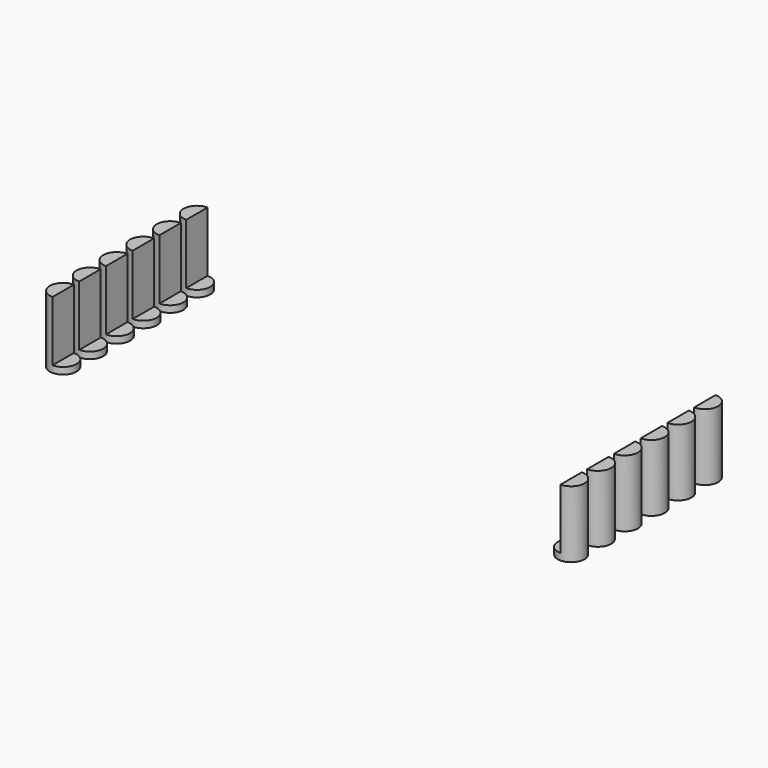
from build123d import *

# Parameters (mm, degrees)
BOX003_W          = 5
BOX003_H          = 35
BOX003_DEPTH      = 12
BOX002_W          = 5
BOX002_H          = 35
BOX002_DEPTH      = 12
CYLINDER013_R     = 2
CYLINDER013_DEPTH = 10
CYLINDER014_R     = 2
CYLINDER014_DEPTH = 10
CYLINDER015_R     = 2
CYLINDER015_DEPTH = 10
CYLINDER016_R     = 2
CYLINDER016_DEPTH = 10
CYLINDER017_R     = 2
CYLINDER017_DEPTH = 10
CYLINDER012_R     = 2
CYLINDER012_DEPTH = 10
CYLINDER007_R     = 2
CYLINDER007_DEPTH = 10
CYLINDER008_R     = 2
CYLINDER008_DEPTH = 10
CYLINDER009_R     = 2
CYLINDER009_DEPTH = 10
CYLINDER010_R     = 2
CYLINDER010_DEPTH = 10
CYLINDER011_R     = 2
CYLINDER011_DEPTH = 10
CYLINDER006_R     = 2
CYLINDER006_DEPTH = 10


with BuildPart() as cubo003:
    # Box003 → Box003 (new body)
    with BuildSketch(Plane(origin=(-71, 69, 2), x_dir=(1, 0, 0), z_dir=(0, 0, 1))):
        with Locations((2.5, 17.5)):
            Rectangle(BOX003_W, BOX003_H)
    extrude(amount=BOX003_DEPTH)


with BuildPart() as cubo002:
    # Box002 → Box002 (new body)
    with BuildSketch(Plane(origin=(0, 69, 2), x_dir=(1, 0, 0), z_dir=(0, 0, 1))):
        with Locations((2.5, 17.5)):
            Rectangle(BOX002_W, BOX002_H)
    extrude(amount=BOX002_DEPTH)


with BuildPart() as cilindro013:
    # Cylinder013 → Cylinder013 (new body)
    with BuildSketch(Plane(origin=(5, 73, 1), x_dir=(1, 0, 0), z_dir=(0, 0, 1))):
        Circle(CYLINDER013_R)
    extrude(amount=CYLINDER013_DEPTH)


with BuildPart() as cilindro014:
    # Cylinder014 → Cylinder014 (new body)
    with BuildSketch(Plane(origin=(5, 83, 1), x_dir=(1, 0, 0), z_dir=(0, 0, 1))):
        Circle(CYLINDER014_R)
    extrude(amount=CYLINDER014_DEPTH)


with BuildPart() as cilindro015:
    # Cylinder015 → Cylinder015 (new body)
    with BuildSketch(Plane(origin=(5, 88, 1), x_dir=(1, 0, 0), z_dir=(0, 0, 1))):
        Circle(CYLINDER015_R)
    extrude(amount=CYLINDER015_DEPTH)


with BuildPart() as cilindro016:
    # Cylinder016 → Cylinder016 (new body)
    with BuildSketch(Plane(origin=(5, 93, 1), x_dir=(1, 0, 0), z_dir=(0, 0, 1))):
        Circle(CYLINDER016_R)
    extrude(amount=CYLINDER016_DEPTH)


with BuildPart() as cilindro017:
    # Cylinder017 → Cylinder017 (new body)
    with BuildSketch(Plane(origin=(5, 98, 1), x_dir=(1, 0, 0), z_dir=(0, 0, 1))):
        Circle(CYLINDER017_R)
    extrude(amount=CYLINDER017_DEPTH)


with BuildPart() as obj1:
    # Cylinder012 → Cylinder012 (new body)
    with BuildSketch(Plane(origin=(5, 78, 1), x_dir=(1, 0, 0), z_dir=(0, 0, 1))):
        Circle(CYLINDER012_R)
    extrude(amount=CYLINDER012_DEPTH)

    # Fusion010: union Cilindro013, Cilindro014, Cilindro015, Cilindro016, Cilindro017
    add(cilindro013.part)
    add(cilindro014.part)
    add(cilindro015.part)
    add(cilindro016.part)
    add(cilindro017.part)


with BuildPart() as obj1_1:
    # Fusion010 placement: moved
    add(obj1.part.moved(Location((-76, 0, 0))))


with BuildPart() as cilindro007:
    # Cylinder007 → Cylinder007 (new body)
    with BuildSketch(Plane(origin=(5, 73, 1), x_dir=(1, 0, 0), z_dir=(0, 0, 1))):
        Circle(CYLINDER007_R)
    extrude(amount=CYLINDER007_DEPTH)


with BuildPart() as cilindro008:
    # Cylinder008 → Cylinder008 (new body)
    with BuildSketch(Plane(origin=(5, 83, 1), x_dir=(1, 0, 0), z_dir=(0, 0, 1))):
        Circle(CYLINDER008_R)
    extrude(amount=CYLINDER008_DEPTH)


with BuildPart() as cilindro009:
    # Cylinder009 → Cylinder009 (new body)
    with BuildSketch(Plane(origin=(5, 88, 1), x_dir=(1, 0, 0), z_dir=(0, 0, 1))):
        Circle(CYLINDER009_R)
    extrude(amount=CYLINDER009_DEPTH)


with BuildPart() as cilindro010:
    # Cylinder010 → Cylinder010 (new body)
    with BuildSketch(Plane(origin=(5, 93, 1), x_dir=(1, 0, 0), z_dir=(0, 0, 1))):
        Circle(CYLINDER010_R)
    extrude(amount=CYLINDER010_DEPTH)


with BuildPart() as cilindro011:
    # Cylinder011 → Cylinder011 (new body)
    with BuildSketch(Plane(origin=(5, 98, 1), x_dir=(1, 0, 0), z_dir=(0, 0, 1))):
        Circle(CYLINDER011_R)
    extrude(amount=CYLINDER011_DEPTH)


with BuildPart() as final:
    # Cylinder006 → Cylinder006 (new body)
    with BuildSketch(Plane(origin=(5, 78, 1), x_dir=(1, 0, 0), z_dir=(0, 0, 1))):
        Circle(CYLINDER006_R)
    extrude(amount=CYLINDER006_DEPTH)

    # Fusion009: union Cilindro007, Cilindro008, Cilindro009, Cilindro010, Cilindro011
    add(cilindro007.part)
    add(cilindro008.part)
    add(cilindro009.part)
    add(cilindro010.part)
    add(cilindro011.part)

    # Fusion011: union obj1
    add(obj1_1.part)

    # Cut014: cut Cubo002
    add(cubo002.part, mode=Mode.SUBTRACT)

    # Cut015: cut Cubo003
    add(cubo003.part, mode=Mode.SUBTRACT)


solid = final.part
